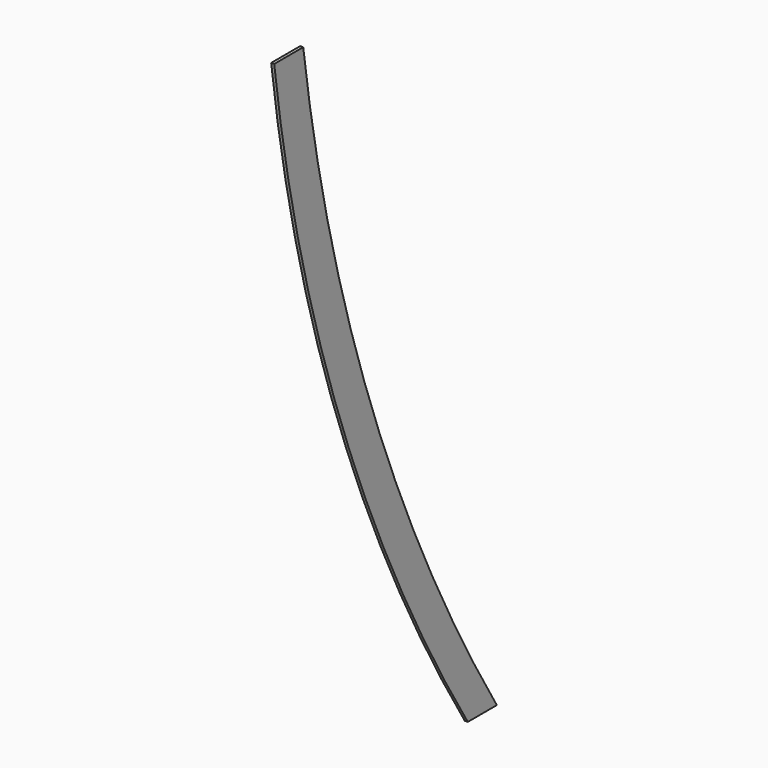
from build123d import *

# Parameters (mm, degrees)
F1_DEPTH = 5


with BuildPart() as f1:
    # F0 (on Right) → F1 (new body)
    with BuildSketch(Plane.YZ):
        with BuildLine():
            Line((-60, 0), (0, 0))
            ThreePointArc((0, 0), (-258.782856, 539.006123), (-400, 1120))
            Line((-400, 1120), (-460, 1120))
            ThreePointArc((-460, 1120), (-320.555557, 538.373015), (-60, 0))
        make_face()
    extrude(amount=F1_DEPTH)


solid = f1.part
